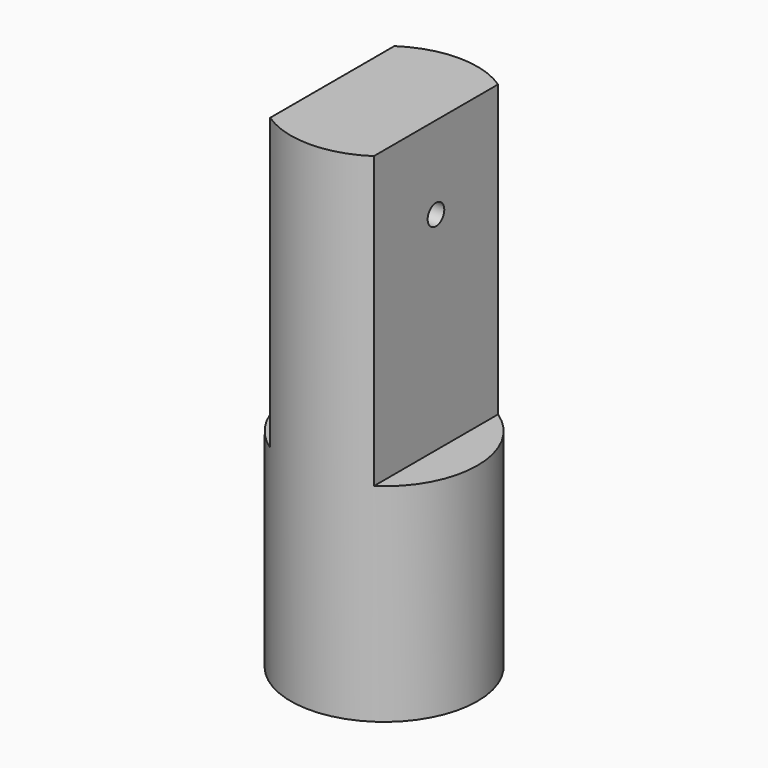
from build123d import *

# Parameters (mm, degrees)
F0_R     = 22.5
F1_DEPTH = 120
F4_DEPTH = 70
F5_R     = 20
F6_DEPTH = 35
F9_D     = 5


with BuildPart() as f1:
    # F0 (on Top) → F1 (new body)
    with BuildSketch(Plane.XY):
        Circle(F0_R)
    extrude(amount=F1_DEPTH)

    # F2 (on face) → F4 (cut)
    with BuildSketch(Plane.XY.offset(120)):
        with BuildLine():
            Line((-12.5, -18.708287), (-12.5, 18.708287))
            ThreePointArc((-12.5, 18.708287), (-22.5, 0), (-12.5, -18.708287))
        make_face()
        with BuildLine():
            ThreePointArc((22.5, 0), (19.843135, 10.606602), (12.5, 18.708287))
            Line((12.5, 18.708287), (12.5, -18.708287))
            ThreePointArc((12.5, -18.708287), (19.843135, -10.606602), (22.5, 0))
        make_face()
    extrude(amount=-F4_DEPTH, mode=Mode.SUBTRACT)

    # F5 (on face) → F6 (cut)
    with BuildSketch(Plane(origin=(0, 0, 0), x_dir=(1, 0, 0), z_dir=(0, 0, -1))):
        Circle(F5_R)
    extrude(amount=-F6_DEPTH, mode=Mode.SUBTRACT)

    # F9 (through all)
    with Locations(Plane.YZ.offset(22.5)):
        with Locations((0, 100)):
            Hole(F9_D / 2)


solid = f1.part
